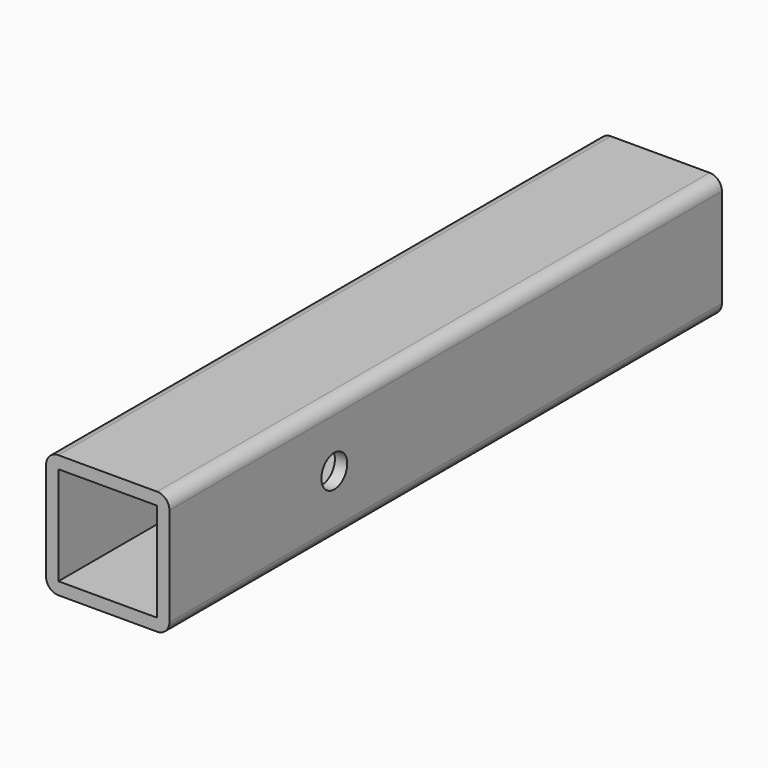
from build123d import *

# Parameters (mm, degrees)
F0_W     = 50.8
F0_H     = 50.8
F1_DEPTH = 330.2
F2_DEPTH = 25.4
F4_D     = 16.66748


with BuildPart() as f1:
    # F0 (on Front) → F1 (new body)
    with BuildSketch(Plane.XZ):
        with BuildLine():
            Line((25.4, 31.75), (-25.4, 31.75))
            ThreePointArc((-25.4, 31.75), (-29.8901280605, 29.8901280605), (-31.75, 25.4))
            Line((-31.75, 25.4), (-31.75, -25.4))
            ThreePointArc((-31.75, -25.4), (-29.8901280605, -29.8901280605), (-25.4, -31.75))
            Line((-25.4, -31.75), (25.4, -31.75))
            ThreePointArc((25.4, -31.75), (29.8901280605, -29.8901280605), (31.75, -25.4))
            Line((31.75, -25.4), (31.75, 25.4))
            ThreePointArc((31.75, 25.4), (29.8901280605, 29.8901280605), (25.4, 31.75))
        make_face()
        Rectangle(F0_W, F0_H, mode=Mode.SUBTRACT)
    extrude(amount=-F1_DEPTH)

    # F0 (on Front) → F2 (join)
    with BuildSketch(Plane.XZ):
        with BuildLine():
            Line((25.4, 31.75), (-25.4, 31.75))
            ThreePointArc((-25.4, 31.75), (-29.8901280605, 29.8901280605), (-31.75, 25.4))
            Line((-31.75, 25.4), (-31.75, -25.4))
            ThreePointArc((-31.75, -25.4), (-29.8901280605, -29.8901280605), (-25.4, -31.75))
            Line((-25.4, -31.75), (25.4, -31.75))
            ThreePointArc((25.4, -31.75), (29.8901280605, -29.8901280605), (31.75, -25.4))
            Line((31.75, -25.4), (31.75, 25.4))
            ThreePointArc((31.75, 25.4), (29.8901280605, 29.8901280605), (25.4, 31.75))
        make_face()
        Rectangle(F0_W, F0_H, mode=Mode.SUBTRACT)
    extrude(amount=F2_DEPTH)

    # F4 (through all)
    with Locations(Plane(origin=(-31.75, 0, 0), x_dir=(0, -1, 0), z_dir=(-1, 0, 0))):
        with Locations((-80.720094915, 0)):
            Hole(F4_D / 2)


solid = f1.part
